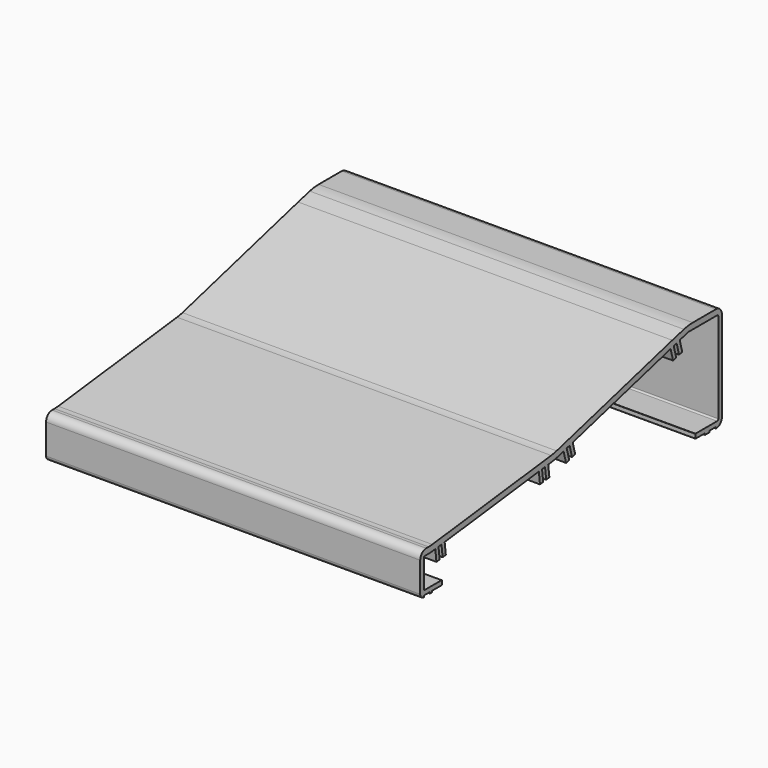
from build123d import *

# Parameters (mm, degrees)
F1_DEPTH = 250


with BuildPart() as f1:
    # F0 (on Right) → F1 (new body)
    with BuildSketch(Plane.YZ):
        with BuildLine():
            Line((-67.213031, 23), (-67.213031, 3))
            ThreePointArc((-67.213031, 3), (-66.334352, 0.87868), (-64.213031, 0))
            Line((-64.213031, 0), (-64.213031, 1))
            Line((-64.213031, 1), (-59.013031, 1))
            Line((-59.013031, 1), (-59.013031, 0))
            Line((-59.013031, 0), (-57.193299, 0))
            Line((-57.193299, 0), (-57.193299, 1))
            Line((-57.193299, 1), (-49.393299, 1))
            ThreePointArc((-49.393299, 1), (-49.251877, 1.058579), (-49.193299, 1.2))
            Line((-49.193299, 1.2), (-49.193299, 3.8))
            ThreePointArc((-49.193299, 3.8), (-49.251877, 3.941421), (-49.393299, 4))
            Line((-49.393299, 4), (-63.213031, 4))
            ThreePointArc((-63.213031, 4), (-63.920138, 4.292893), (-64.213031, 5))
            Line((-64.213031, 5), (-64.213031, 23))
            ThreePointArc((-64.213031, 23), (-63.920138, 23.707107), (-63.213031, 24))
            Line((-63.213031, 24), (-60.213031, 24))
            ThreePointArc((-60.213031, 24), (-58.414842, 24.05394), (-56.623119, 24.215566))
            Line((-56.623119, 24.215566), (-54.620346, 24.456959))
            Line((-54.620346, 24.456959), (-51.939747, 24.780052))
            Line((-51.939747, 24.780052), (-49.457711, 25.079211))
            Line((-49.457711, 25.079211), (-46.777112, 25.402303))
            Line((-46.777112, 25.402303), (31.867868, 34.881367))
            Line((31.867868, 34.881367), (34.548467, 35.204459))
            Line((34.548467, 35.204459), (37.030503, 35.503618))
            Line((37.030503, 35.503618), (39.711102, 35.82671))
            Line((39.711102, 35.82671), (42.658329, 36.181939))
            ThreePointArc((42.658329, 36.181939), (45.213023, 36.581626), (47.733225, 37.160242))
            Line((47.733225, 37.160242), (52.531631, 38.441465))
            Line((52.531631, 38.441465), (55.140242, 39.13799))
            Line((55.140242, 39.13799), (57.555623, 39.782921))
            Line((57.555623, 39.782921), (60.164234, 40.479447))
            Line((60.164234, 40.479447), (141.917559, 62.308406))
            Line((141.917559, 62.308406), (144.52617, 63.004931))
            Line((144.52617, 63.004931), (146.941551, 63.649862))
            Line((146.941551, 63.649862), (149.550162, 64.346387))
            Line((149.550162, 64.346387), (156.589742, 66.226026))
            Line((156.589742, 66.226026), (180.786126, 66.246425))
            ThreePointArc((180.786126, 66.246425), (181.493777, 65.953831), (181.786969, 65.246426))
            Line((181.786969, 65.246426), (181.786969, 5))
            ThreePointArc((181.786969, 5), (181.494075, 4.292893), (180.786969, 4))
            Line((180.786969, 4), (162.786969, 4))
            ThreePointArc((162.786969, 4), (162.645547, 3.941421), (162.586969, 3.8))
            Line((162.586969, 3.8), (162.586969, 1.2))
            ThreePointArc((162.586969, 1.2), (162.645547, 1.058579), (162.786969, 1))
            Line((162.786969, 1), (170.586969, 1))
            Line((170.586969, 1), (170.586969, 0))
            Line((170.586969, 0), (174.586969, 0))
            Line((174.586969, 0), (174.586969, 1))
            Line((174.586969, 1), (179.786969, 1))
            Line((179.786969, 1), (179.786969, 0))
            ThreePointArc((179.786969, 0), (183.322503, 1.464466), (184.786969, 5))
            Line((184.786969, 5), (184.786969, 65.245583))
            ThreePointArc((184.786969, 65.245583), (183.321012, 68.782607), (179.782753, 70.245581))
            Line((179.782753, 70.245581), (160.415484, 70.229253))
            ThreePointArc((160.415484, 70.229253), (156.692023, 69.994123), (153.02654, 69.298648))
            Line((153.02654, 69.298648), (143.316564, 66.822088))
            Line((143.316564, 66.822088), (46.701335, 41.024851))
            ThreePointArc((46.701335, 41.024851), (44.45587, 40.509313), (42.179674, 40.153197))
            Line((42.179674, 40.153197), (-57.101774, 28.186824))
            ThreePointArc((-57.101774, 28.186824), (-58.654601, 28.046748), (-60.213031, 28))
            Line((-60.213031, 28), (-62.213031, 28))
            ThreePointArc((-62.213031, 28), (-65.748565, 26.535534), (-67.213031, 23))
        make_face()
        Polygon((-51.939747, 24.780052), (-54.620346, 24.456959), (-53.663036, 16.514444), (-50.982437, 16.837536), align=None)
        Polygon((-46.777112, 25.402303), (-49.457711, 25.079211), (-48.500401, 17.136695), (-45.819802, 17.459787), align=None)
        Polygon((34.548467, 35.204459), (31.867868, 34.881367), (32.825178, 26.938851), (35.505777, 27.261943), align=None)
        Polygon((39.711102, 35.82671), (37.030503, 35.503618), (37.987813, 27.561102), (40.668412, 27.884194), align=None)
        Polygon((55.140242, 39.13799), (52.531631, 38.441465), (54.59541, 30.712247), (57.204021, 31.408772), align=None)
        Polygon((151.613941, 56.617169), (149.550162, 64.346387), (146.941551, 63.649862), (149.00533, 55.920644), align=None)
        Polygon((60.164234, 40.479447), (57.555623, 39.782921), (59.619402, 32.053703), (62.228013, 32.750228), align=None)
        Polygon((146.589949, 55.275713), (144.52617, 63.004931), (141.917559, 62.308406), (143.981338, 54.579187), align=None)
    extrude(amount=-F1_DEPTH)


solid = f1.part
